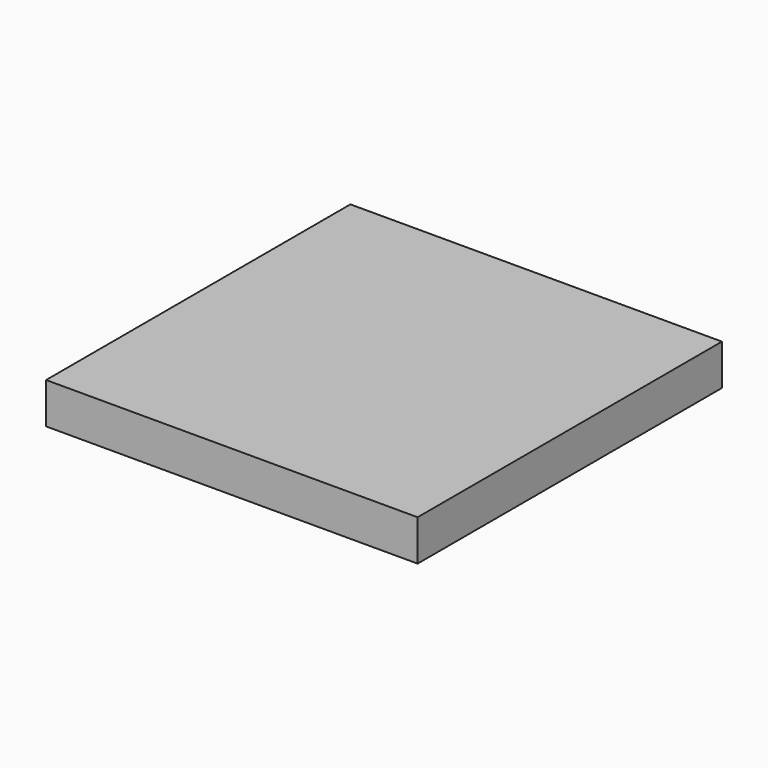
from build123d import *

# Parameters (mm, degrees)
F0_W     = 12.704802677
F0_H     = 13.0072976463
F1_DEPTH = 1.397


with BuildPart() as f1:
    # F0 (on Top) → F1 (new body)
    with BuildSketch(Plane.XY):
        with Locations((-22.6871455088, 12.2510588262)):
            Rectangle(F0_W, F0_H)
    extrude(amount=F1_DEPTH)


with BuildPart() as f1_1:
    # F2: moved
    add(f1.part.moved(Location((0, 0, 25.4))))


solid = f1_1.part
